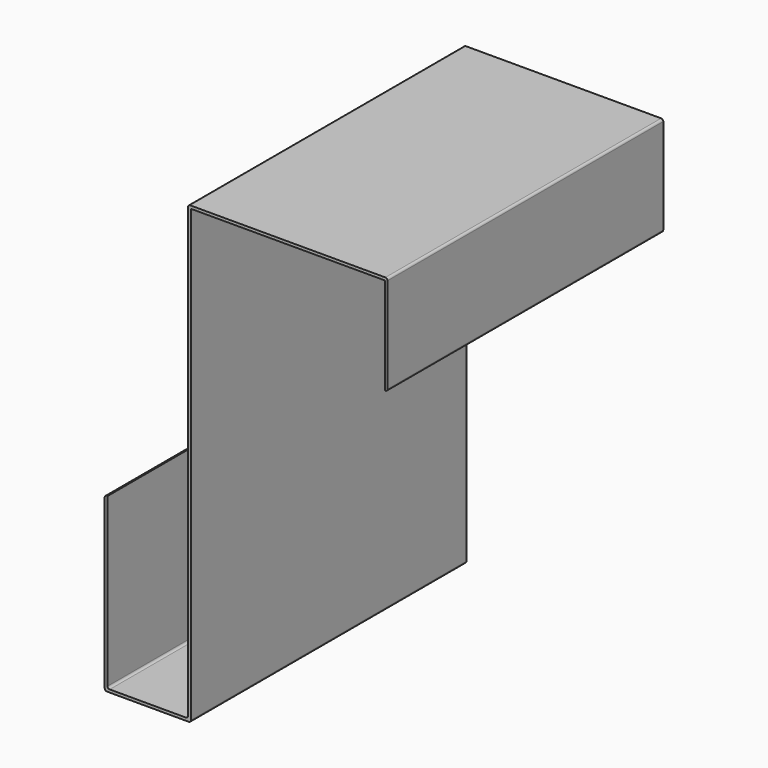
from build123d import *

# Parameters (mm, degrees)
F1_DEPTH = 80
F2_R     = 1


with BuildPart() as f1:
    # F0 (on Front) → F1 (new body, symmetric)
    with BuildSketch(Plane.XZ):
        Polygon((-155.952706, -85), (-157.252706, -85), (-157.252706, -165), (-117.252706, -165), (-117.252706, 45), (-27.252706, 45), (-27.252706, 0), (-25.952706, 0), (-25.952706, 46.3), (-118.552706, 46.3), (-118.552706, -163.7), (-155.952706, -163.7), align=None)
    extrude(amount=F1_DEPTH, both=True)

    # F2
    f2_edges = [f1.edges().sort_by_distance(p)[0] for p in [
        (-118.552706, 0, 46.3),
        (-25.952706, 0, 46.3),
        (-117.252706, 0, -165),
        (-157.252706, 0, -165),
        (-25.952706, 0, 0),
        (-157.252706, 0, -85),
        (-155.952706, 0, -163.7),
        (-118.552706, 0, -163.7),
    ]]
    fillet(f2_edges, radius=F2_R)


solid = f1.part
